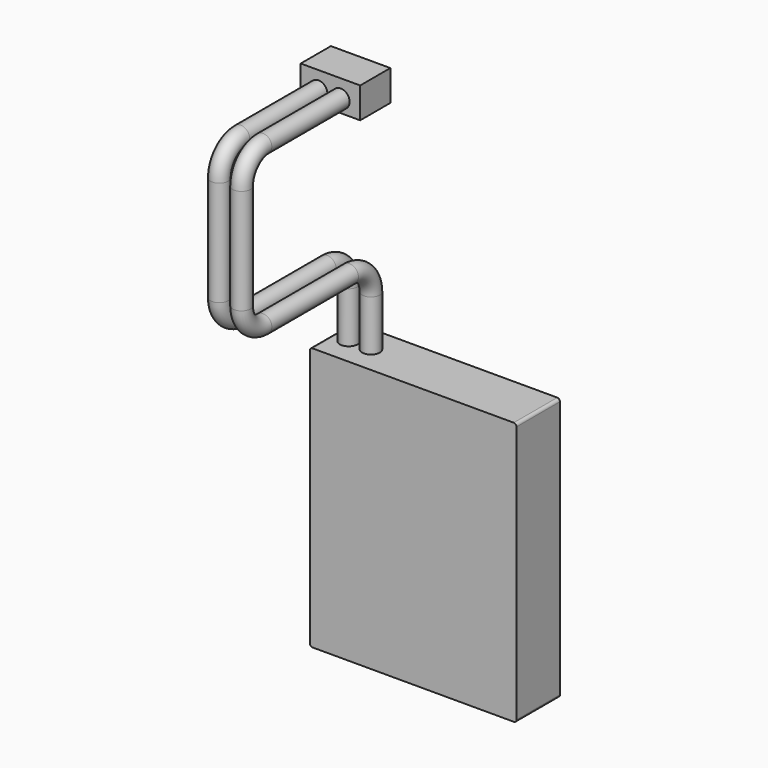
from build123d import *

# Parameters (mm, degrees)
F0_W     = 19
F0_H     = 24.2023519
F1_DEPTH = 2.5
F2_R     = 0.254
F4_R     = 0.8155469801
F6_W     = 5.4661694448
F6_H     = 2.8231889009
F7_DEPTH = 3.4669958986


with BuildPart() as f1:
    # F0 (on Front) → F1 (new body, symmetric)
    with BuildSketch(Plane.XZ):
        with Locations((0.245179546, 0.817263034)):
            Rectangle(F0_W, F0_H)
    extrude(amount=F1_DEPTH, both=True)

    # F2
    f2_edges = [f1.edges().sort_by_distance(p)[0] for p in [
        (9.74518, 0, 12.918439),
        (-9.25482, 0, 12.918439),
        (-9.25482, 0, -11.283913),
        (9.74518, 0, -11.283913),
    ]]
    fillet(f2_edges, radius=F2_R)

    # F5: sweep along a path in F3
    with BuildLine(Plane.YZ) as f5_path:
        Line((0, 12.918438984), (0, 17.573710531))
        ThreePointArc((0, 17.573710531), (-0.720020552, 19.3119939129), (-2.458303934, 20.032014465))
        Line((-2.458303934, 20.032014465), (-12.4033046886, 20.032014465))
        ThreePointArc((-12.4033046886, 20.032014465), (-14.1415880706, 20.752035017), (-14.8616086226, 22.4903183989))
        Line((-14.8616086226, 22.4903183989), (-14.8616086226, 32.1607864462))
        ThreePointArc((-14.8616086226, 32.1607864462), (-14.1415880706, 33.8990698281), (-12.4033046886, 34.6190903801))
        Line((-12.4033046886, 34.6190903801), (-3.4669958986, 34.6190903801))
    # F4 (on face) → F5 (sweep)
    with BuildSketch(Plane.XY.offset(12.918438984)):
        with Locations((-5.6364475749, 0)):
            Circle(F4_R)
        with Locations((-7.6810601167, 0)):
            Circle(F4_R)
    sweep(path=f5_path.line)

    # F6 (on Front) → F7 (join, through all)
    with BuildSketch(Plane.XZ):
        with Locations((-6.5834919224, 34.8495356739)):
            Rectangle(F6_W, F6_H)
    extrude(amount=F7_DEPTH)


solid = f1.part
